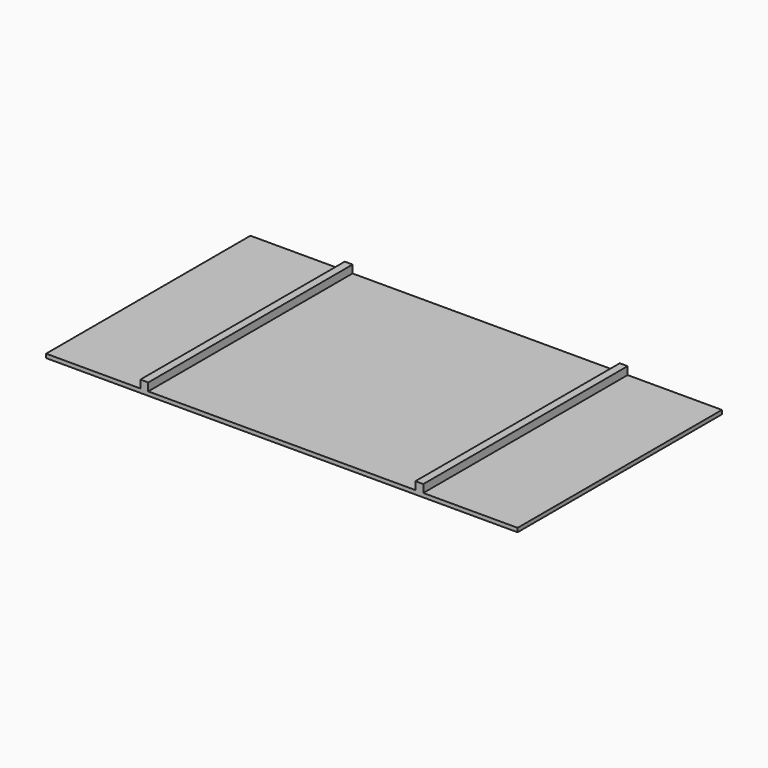
from build123d import *

# Parameters (mm, degrees)
SKETCH_W     = 120
SKETCH_H     = 65
PAD_DEPTH    = 1
SKETCH001_W  = 2
SKETCH001_H  = 65
PAD001_DEPTH = 2


with BuildPart() as part:
    # Sketch → Pad (new body)
    with BuildSketch(Plane.XY):
        with Locations((60, 32.5)):
            Rectangle(SKETCH_W, SKETCH_H)
    extrude(amount=PAD_DEPTH)

    # Sketch001 → Pad001 (new body)
    with BuildSketch(Plane.XY.offset(1)):
        with Locations((25, 32.5)):
            Rectangle(SKETCH001_W, SKETCH001_H)
        with Locations((95, 32.5)):
            Rectangle(SKETCH001_W, SKETCH001_H)
    extrude(amount=PAD001_DEPTH)


solid = part.part
